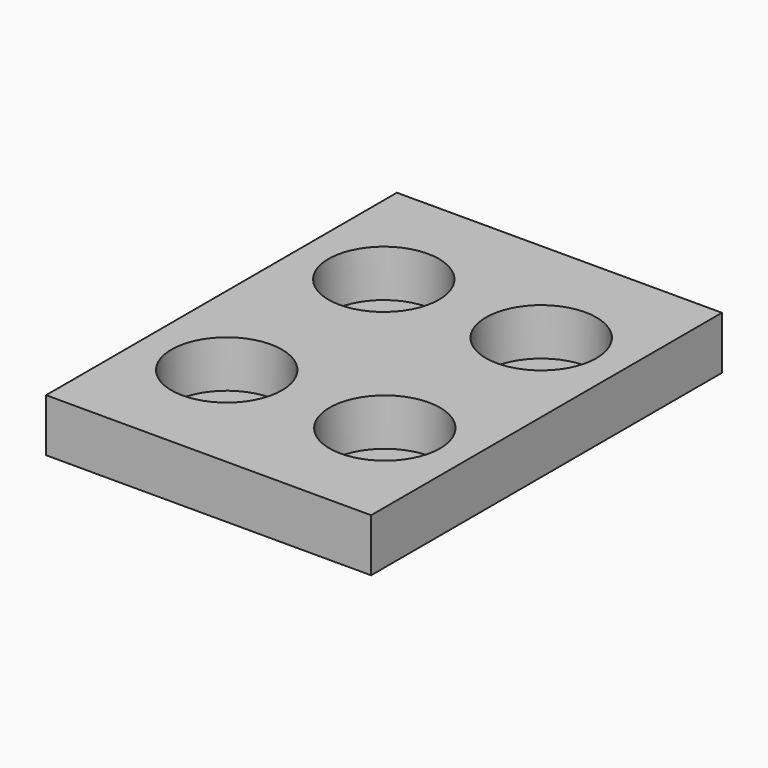
from build123d import *

# Parameters (mm, degrees)
F0_W     = 276.5
F0_H     = 373
F2_DEPTH = 45
F1_R     = 47
F3_DEPTH = 40


with BuildPart() as f2:
    # F0 (on Top) → F2 (new body)
    with BuildSketch(Plane.XY):
        Rectangle(F0_W, F0_H)
    extrude(amount=-F2_DEPTH)

    # F1 (on face) → F3 (cut)
    with BuildSketch(Plane.XY):
        with Locations((-67.216894, 83.755925)):
            Circle(F1_R)
        with Locations((66.986135, 83.390688)):
            Circle(F1_R)
        with Locations((-67.216894, -83.244075)):
            Circle(F1_R)
        with Locations((66.986135, -82.878837)):
            Circle(F1_R)
    extrude(amount=-F3_DEPTH, mode=Mode.SUBTRACT)


solid = f2.part
